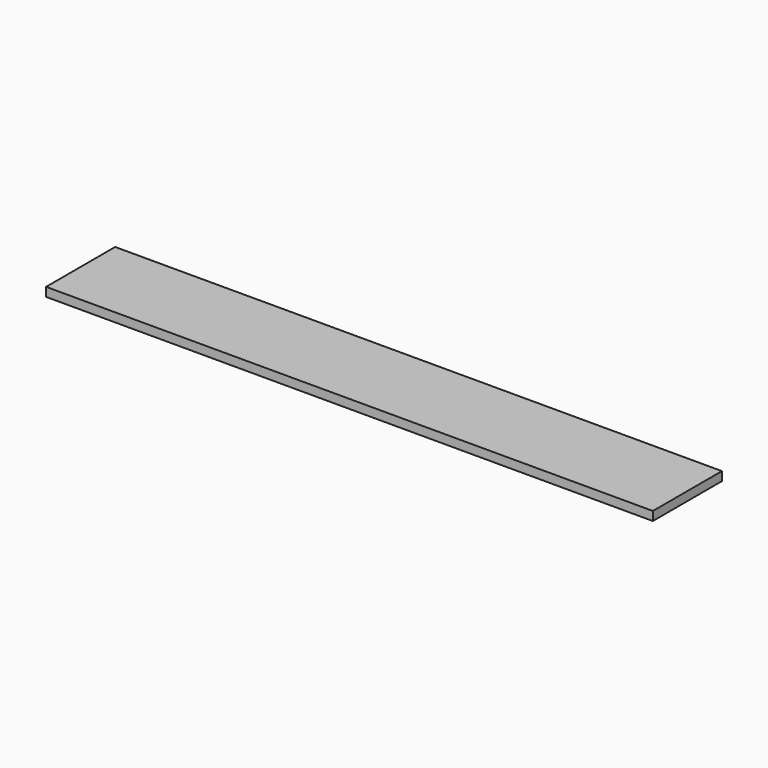
from build123d import *

# Parameters (mm, degrees)
SKETCH_W  = 1230
SKETCH_H  = 175
PAD_DEPTH = 18


with BuildPart() as part:
    # Sketch → Pad (new body)
    with BuildSketch(Plane.XY):
        Rectangle(SKETCH_W, SKETCH_H)
    extrude(amount=PAD_DEPTH)


solid = part.part
